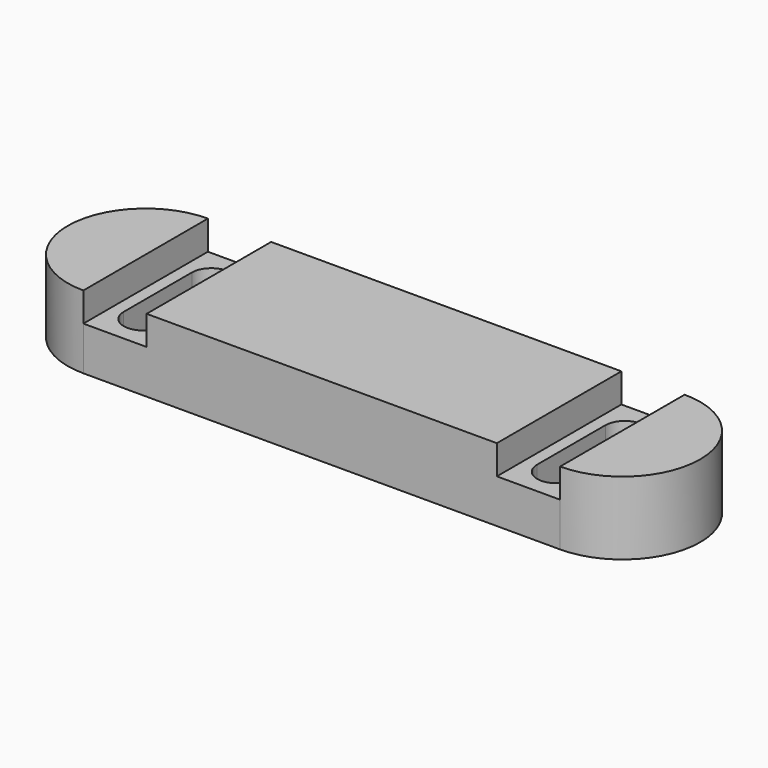
from build123d import *

# Parameters (mm, degrees)
F1_DEPTH = 15
F2_W     = 13
F2_H     = 32
F3_DEPTH = 6


with BuildPart() as f1:
    # F0 (on Top) → F1 (new body)
    with BuildSketch(Plane.XY):
        with BuildLine():
            Line((49, 16), (0, 16))
            Line((0, 16), (-49, 16))
            ThreePointArc((-49, 16), (-65, 0), (-49, -16))
            Line((-49, -16), (0, -16))
            Line((0, -16), (49, -16))
            ThreePointArc((49, -16), (65, 0), (49, 16))
        make_face()
        with BuildLine():
            Line((-46.5, -8.75), (-46.5, 8.75))
            ThreePointArc((-46.5, 8.75), (-42.5, 12.75), (-38.5, 8.75))
            Line((-38.5, 8.75), (-38.5, -8.75))
            ThreePointArc((-38.5, -8.75), (-42.5, -12.75), (-46.5, -8.75))
        make_face(mode=Mode.SUBTRACT)
        with BuildLine():
            ThreePointArc((46.5, -8.75), (42.5, -12.75), (38.5, -8.75))
            Line((38.5, -8.75), (38.5, 8.75))
            ThreePointArc((38.5, 8.75), (42.5, 12.75), (46.5, 8.75))
            Line((46.5, 8.75), (46.5, -8.75))
        make_face(mode=Mode.SUBTRACT)
    extrude(amount=F1_DEPTH)

    # F2 (on face) → F3 (cut)
    with BuildSketch(Plane.XY.offset(15)):
        with Locations((-42.5, 0)):
            Rectangle(F2_W, F2_H)
        with BuildLine():
            ThreePointArc((-38.5, -8.75), (-42.5, -12.75), (-46.5, -8.75))
            Line((-46.5, -8.75), (-46.5, 8.75))
            ThreePointArc((-46.5, 8.75), (-42.5, 12.75), (-38.5, 8.75))
            Line((-38.5, 8.75), (-38.5, -8.75))
        make_face(mode=Mode.SUBTRACT)
        with Locations((42.5, 0)):
            Rectangle(F2_W, F2_H)
        with BuildLine():
            Line((46.5, 8.75), (46.5, -8.75))
            ThreePointArc((46.5, -8.75), (42.5, -12.75), (38.5, -8.75))
            Line((38.5, -8.75), (38.5, 8.75))
            ThreePointArc((38.5, 8.75), (42.5, 12.75), (46.5, 8.75))
        make_face(mode=Mode.SUBTRACT)
    extrude(amount=-F3_DEPTH, mode=Mode.SUBTRACT)


solid = f1.part
